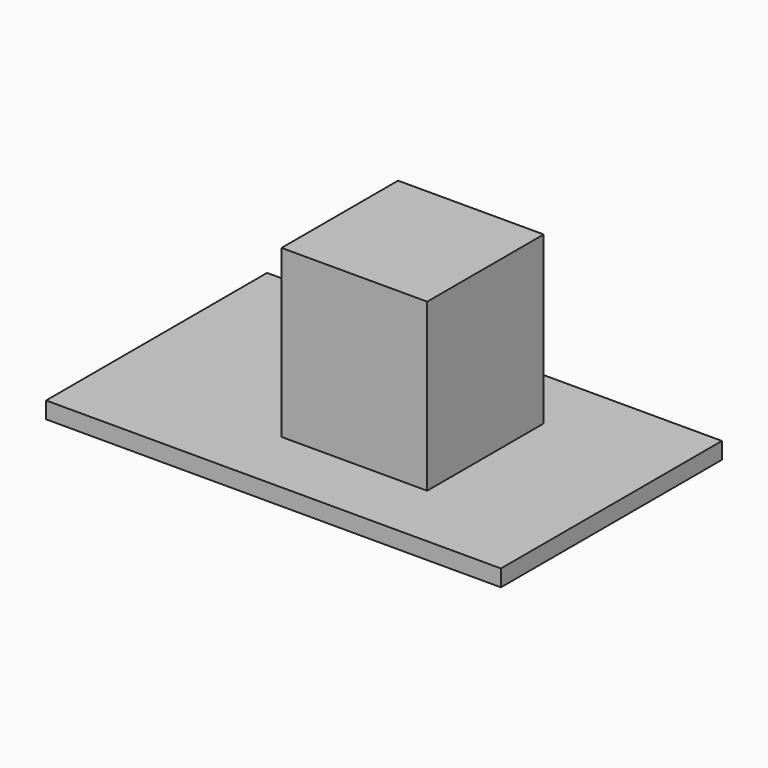
from build123d import *

# Parameters (mm, degrees)
SKETCH015_W     = 10.932014
SKETCH015_H     = 6.638581
PAD007_DEPTH    = 0.4
SKETCH016_W     = 3.5
SKETCH016_H     = 3.5
PAD008_DEPTH    = 4
SKETCH017_W     = 2
SKETCH017_H     = 2
POCKET008_DEPTH = 3


with BuildPart() as part:
    # Sketch015 → Pad007 (new body)
    with BuildSketch(Plane.XY.offset(13)):
        with Locations((9.503802, 14.425956)):
            Rectangle(SKETCH015_W, SKETCH015_H)
    extrude(amount=PAD007_DEPTH)

    # Sketch016 (on Face6 of Pad007) → Pad008 (join)
    with BuildSketch(Plane.XY.offset(13.4)):
        with Locations((10.165375, 14.45904)):
            Rectangle(SKETCH016_W, SKETCH016_H)
    extrude(amount=PAD008_DEPTH)

    # Sketch017 (on Face4 of Pad008) → Pocket008 (cut)
    with BuildSketch(Plane(origin=(0, 0, 13), x_dir=(1, 0, 0), z_dir=(0, 0, -1))):
        with Locations((10.13506, -14.402274)):
            Rectangle(SKETCH017_W, SKETCH017_H)
    extrude(amount=-POCKET008_DEPTH, mode=Mode.SUBTRACT)


with BuildPart() as part_1:
    # Body006 placement: moved
    add(part.part.moved(Location((0, 0, -4))))


solid = part_1.part
